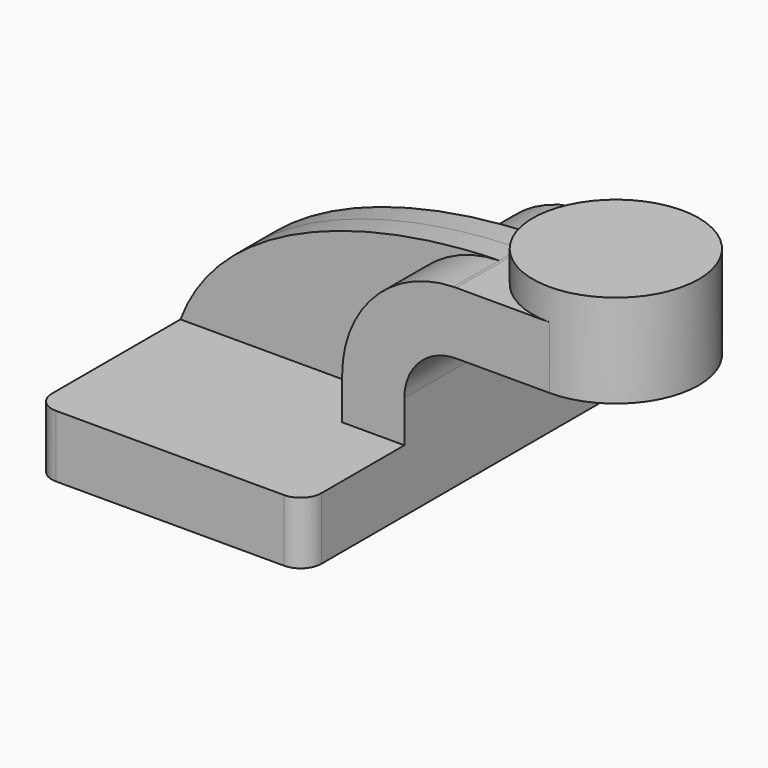
from build123d import *

# Parameters (mm, degrees)
F1_DEPTH = 63.5
F2_DEPTH = 7.9375
F3_DEPTH = 25.4
F5_R     = 6.35


with BuildPart() as f1:
    # F0 (on Front) → F1 (new body, symmetric)
    with BuildSketch(Plane.XZ):
        Polygon((-41.275, -9.525), (41.275, -9.525), (41.275, 9.525), (22.225, 9.525), (-41.275, 9.525), align=None)
    extrude(amount=F1_DEPTH, both=True)

    # F0 (on Front) → F2 (join, symmetric)
    with BuildSketch(Plane.XZ):
        with BuildLine():
            add(Edge.make_bspline(
                [(-41.275, 9.525), (-28.1295553006, 44.6239538406), (21.5320084104, 56.6569118674), (56.3533917414, 57.1409138543)],
                knots=[0, 0, 0, 0, 108.5115602051, 108.5115602051, 108.5115602051, 108.5115602051], degree=3))
            Line((-41.275, 9.525), (22.225, 9.525))
            Line((22.225, 9.525), (22.225, 22.225))
            ThreePointArc((22.225, 22.225), (32.1742400673, 46.6374361911), (56.3533917414, 57.1409138543))
        make_face()
    extrude(amount=F2_DEPTH, both=True)

    # F0 (on Front) → F3 (join, symmetric)
    with BuildSketch(Plane.XZ):
        with BuildLine():
            Line((22.225, 9.525), (41.275, 9.525))
            Line((41.275, 9.525), (41.275, 22.225))
            ThreePointArc((41.275, 22.225), (45.9246798487, 33.4503201513), (57.15, 38.1))
            Line((57.15, 38.1), (60.325, 38.1))
            Line((60.325, 38.1), (60.325, 57.15))
            Line((60.325, 57.15), (57.15, 57.15))
            add(Edge.make_bspline(
                [(56.3533917414, 57.1409138543), (56.6198041666, 57.1446168704), (56.8853479194, 57.1476438664), (57.15, 57.15)],
                knots=[108.5115602051, 108.5115602051, 108.5115602051, 108.5115602051, 109.3417635215, 109.3417635215, 109.3417635215, 109.3417635215], degree=3))
            ThreePointArc((56.3533917414, 57.1409138543), (32.1742400673, 46.6374361911), (22.225, 22.225))
            Line((22.225, 22.225), (22.225, 9.525))
        make_face()
        Polygon((60.325, 57.15), (60.325, 38.1), (80.6127000995, 38.1), (85.725, 38.1), (85.725, 57.15), (80.6127000995, 57.15), align=None)
    extrude(amount=F3_DEPTH, both=True)

    # F0 (on Front) → F4 (revolve)
    with BuildSketch(Plane.XZ):
        Polygon((85.725, 57.15), (85.725, 38.1), (111.125, 38.1), (111.125, 66.675), (85.725, 66.675), align=None)
    revolve(axis=Axis((85.725, 0, 52.3875), (0, 0, -1)))

    # F5
    f5_edges = [f1.edges().sort_by_distance(p)[0] for p in [
        (41.275, -63.5, 0),
        (-41.275, -63.5, 0),
        (-41.275, 63.5, 0),
        (41.275, 63.5, 0),
    ]]
    fillet(f5_edges, radius=F5_R)


solid = f1.part
